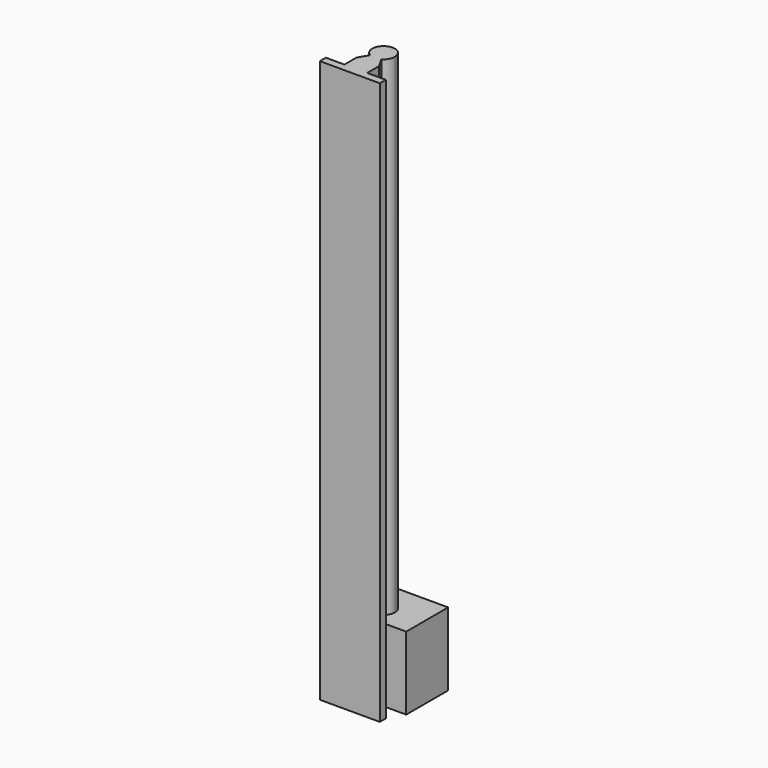
from build123d import *

# Parameters (mm, degrees)
F1_DEPTH = 300
F2_DEPTH = 39


with BuildPart() as f1:
    # F0 (on Top) → F1 (new body)
    with BuildSketch(Plane.XY):
        with BuildLine():
            ThreePointArc((3, 17.303848), (5.196152, 19.5), (6, 22.5))
            ThreePointArc((6, 22.5), (-3, 27.696152), (-3, 17.303848))
            ThreePointArc((-3, 17.303848), (0, 16.5), (3, 17.303848))
        make_face()
        with BuildLine():
            ThreePointArc((3, 17.303848), (0, 16.5), (-3, 17.303848))
            Line((-3, 17.303848), (-6.062178, 12))
            Line((-6.062178, 12), (-6.062178, 4))
            Line((-6.062178, 4), (6.062178, 4))
            Line((6.062178, 4), (6.062178, 12))
            Line((6.062178, 12), (3, 17.303848))
        make_face()
        Polygon((6.062178, 4), (-6.062178, 4), (-16, 4), (-16, 0), (16, 0), (16, 4), align=None)
    extrude(amount=F1_DEPTH)


with BuildPart() as f2:
    # F0 (on Top) → F2 (new body)
    with BuildSketch(Plane.XY):
        with BuildLine():
            ThreePointArc((-3, 17.303848), (-3, 27.696152), (6, 22.5))
            ThreePointArc((6, 22.5), (5.196152, 19.5), (3, 17.303848))
            Line((3, 17.303848), (6.062178, 12))
            Line((6.062178, 12), (20.5, 12))
            Line((20.5, 12), (20.5, 40))
            Line((20.5, 40), (-20.5, 40))
            Line((-20.5, 40), (-20.5, 12))
            Line((-20.5, 12), (-6.062178, 12))
            Line((-6.062178, 12), (-3, 17.303848))
        make_face()
    extrude(amount=F2_DEPTH)


solid = Compound([f1.part, f2.part])
